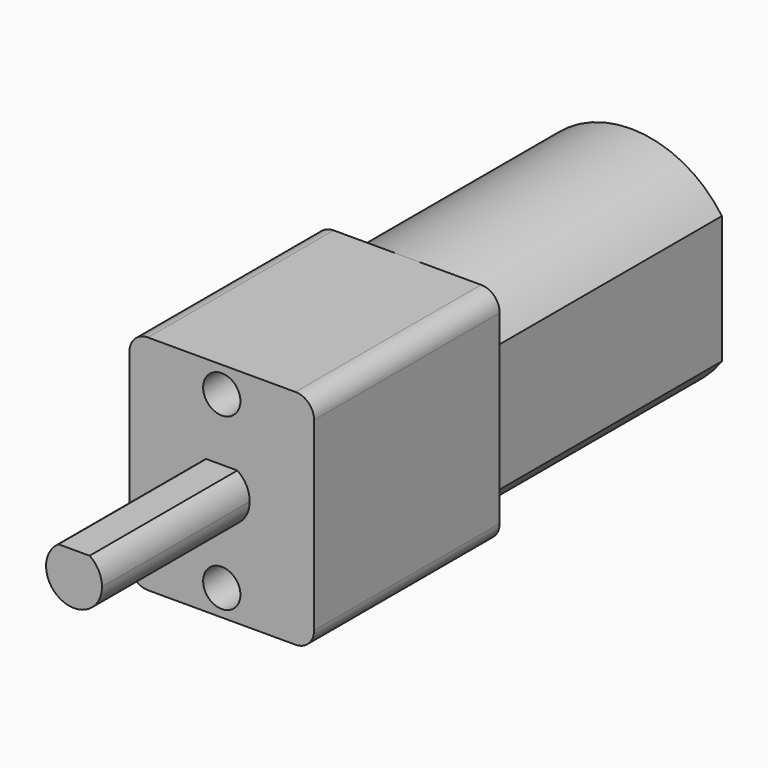
from build123d import *

# Parameters (mm, degrees)
F0_W     = 9.771576
F0_H     = 6.858
F1_DEPTH = 14.986
F2_W     = 9.906
F2_H     = 11.938
F3_DEPTH = 12.446
F4_R     = 1
F5_DEPTH = 2
F6_R     = 1
F8_DEPTH = 9.906


with BuildPart() as f1:
    # F0 (on Front) → F1 (new body)
    with BuildSketch(Plane.XZ):
        with BuildLine():
            ThreePointArc((4.885788, 3.429), (0, 5.969), (-4.885788, 3.429))
            Line((-4.885788, 3.429), (4.885788, 3.429))
        make_face()
        Rectangle(F0_W, F0_H)
        with BuildLine():
            Line((4.885788, -3.429), (-4.885788, -3.429))
            ThreePointArc((-4.885788, -3.429), (0, -5.969), (4.885788, -3.429))
        make_face()
    extrude(amount=F1_DEPTH)

    # F2 (on face) → F3 (join)
    with BuildSketch(Plane.XZ.offset(14.986)):
        Rectangle(F2_W, F2_H)
    extrude(amount=F3_DEPTH)

    # F4 (on face) → F5 (cut)
    with BuildSketch(Plane.XZ.offset(27.432)):
        with Locations((0, -4.572)):
            Circle(F4_R)
        with Locations((0, 4.572)):
            Circle(F4_R)
    extrude(amount=-F5_DEPTH, mode=Mode.SUBTRACT)

    # F6
    f6_edges = [f1.edges().sort_by_distance(p)[0] for p in [
        (-4.953, -21.209, 5.969),
        (4.953, -21.209, 5.969),
        (4.953, -21.209, -5.969),
        (-4.953, -21.209, -5.969),
    ]]
    fillet(f6_edges, radius=F6_R)

    # F7 (on face) → F8 (join)
    with BuildSketch(Plane.XZ.offset(27.432)):
        with BuildLine():
            ThreePointArc((-0.835155, 1.246), (-0.70614, -1.323392), (1.5, 0))
            ThreePointArc((1.5, 0), (1.323392, 0.70614), (0.835155, 1.246))
            Line((0.835155, 1.246), (-0.835155, 1.246))
        make_face()
    extrude(amount=F8_DEPTH)


solid = f1.part
